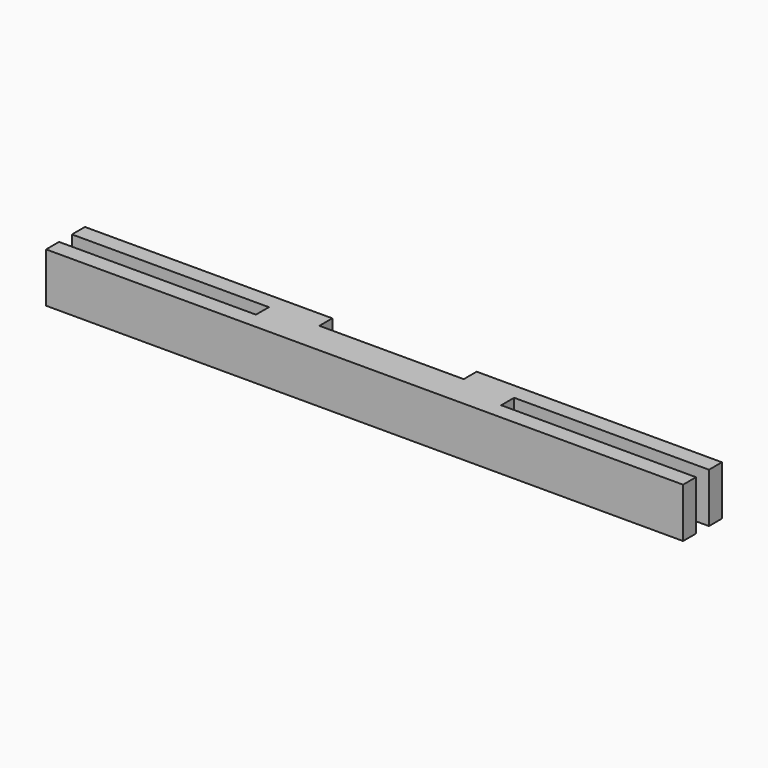
from build123d import *

# Parameters (mm, degrees)
F1_DEPTH = 23.749


with BuildPart() as f1:
    # F0 (on Top) → F1 (new body)
    with BuildSketch(Plane.XY):
        Polygon((-160.439441, 7.747), (-160.439441, 0), (144.360559, 0), (144.360559, 7.747), (51.142559, 7.747), (51.142559, 15.494), (144.360559, 15.494), (144.360559, 23.241), (27.012559, 23.241), (27.012559, 15.494), (-42.075441, 15.494), (-42.075441, 23.241), (-160.439441, 23.241), (-160.439441, 15.494), (-66.205441, 15.494), (-66.205441, 7.747), align=None)
    extrude(amount=F1_DEPTH)


solid = f1.part
